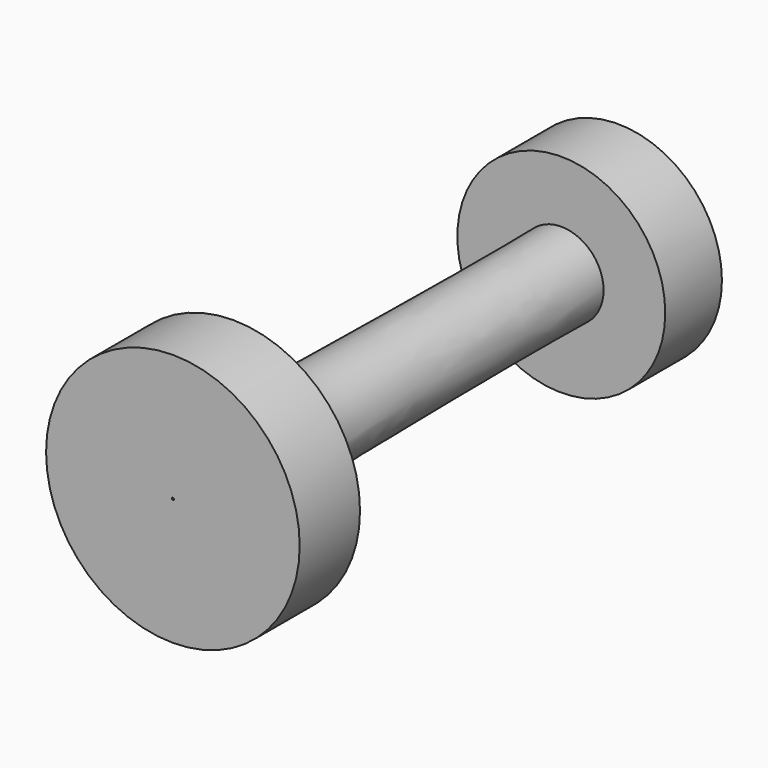
from build123d import *


with BuildPart() as f2:
    # F1 (on Top) → F2 (revolve)
    with BuildSketch(Plane.XY):
        with BuildLine():
            Line((-12.1228452772, -25.7004331797), (-20.6573270261, -25.7004331797))
            add(Edge.make_bspline(
                [(-20.6573270261, -25.7004331797), (-21.9585579123, -23.7116855129), (-24.4518281682, -19.9010739936), (-25.8673555034, -14.146525298), (-26.1327547955, -8.392755394), (-26.3184699385, -0.223848061), (-26.6800273677, 34.3292194542), (-26.4762938023, 43.9331904054)],
                knots=[0, 0, 0, 0, 0.1346864672, 0.2580708513, 0.3729458061, 0.5263632562, 0.8649222159, 0.8649222159, 0.8649222159, 0.8649222159], degree=3))
            Line((-26.4762938023, 43.9331904054), (-16.0021558404, 43.9331904054))
            Line((-16.0021558404, 43.9331904054), (-16.0021558404, 55.9590533376))
            Line((-16.0021558404, 55.9590533376), (-22.9849163443, 55.9590533376))
            Line((-22.9849163443, 55.9590533376), (-22.9849163443, 51.1099137366))
            Line((-22.9849163443, 51.1099137366), (-29.1918125004, 51.1099137366))
            Line((-29.1918125004, 51.1099137366), (-29.1918125004, 55.9590533376))
            Line((-29.1918125004, 55.9590533376), (-33.4590524435, 55.9590533376))
            Line((-33.4590524435, 55.9590533376), (-33.4590524435, -38.5021567345))
            Line((-33.4590524435, -38.5021567345), (-12.1228452772, -38.5021567345))
            Line((-12.1228452772, -38.5021567345), (-12.1228452772, -25.7004331797))
        make_face()
    revolve(axis=Axis((-33.6530171335, 5.5280178785, 0), (0, -1, 0)))


solid = f2.part
